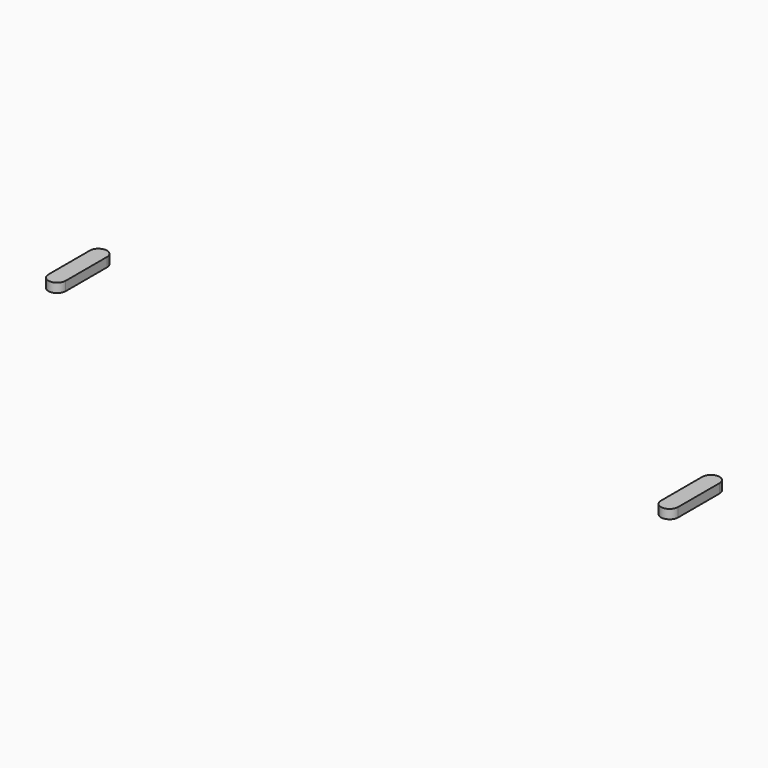
from build123d import *

# Parameters (mm, degrees)
PAD_DEPTH    = 0.4
PAD001_DEPTH = 0.4


with BuildPart() as obj1:
    # Sketch → Pad (new body, symmetric)
    with BuildSketch(Plane.XY):
        with BuildLine():
            ThreePointArc((-25.92, 4.5), (-26.67, 5.25), (-27.42, 4.5))
            Line((-27.42, 4.5), (-27.42, 0))
            ThreePointArc((-27.42, 0), (-26.67, -0.75), (-25.92, 0))
            Line((-25.92, 4.5), (-25.92, 0))
        make_face()
    extrude(amount=PAD_DEPTH, both=True)


with BuildPart() as obj2:
    # Sketch001 → Pad001 (new body, symmetric)
    with BuildSketch(Plane.XY):
        with BuildLine():
            ThreePointArc((27.42, 4.5), (26.67, 5.25), (25.92, 4.5))
            Line((25.92, 4.5), (25.92, 0))
            ThreePointArc((25.92, 0), (26.67, -0.75), (27.42, 0))
            Line((27.42, 4.5), (27.42, 0))
        make_face()
    extrude(amount=PAD001_DEPTH, both=True)


solid = Compound([obj1.part, obj2.part])
